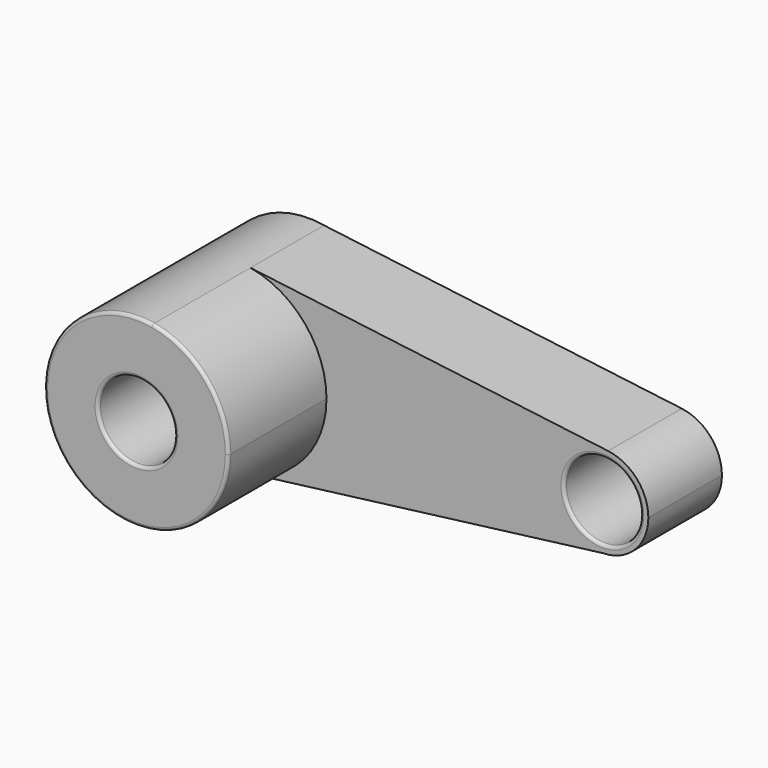
from build123d import *

# Parameters (mm, degrees)
F0_R     = 12.5
F1_DEPTH = 30
F2_DEPTH = 70
F3_R     = 1
F4_R     = 1
F5_R     = 0.5


with BuildPart() as f1:
    # F0 (on Front) → F1 (new body)
    with BuildSketch(Plane.XZ):
        with BuildLine():
            ThreePointArc((3.771303, -29.762011), (22.5071, -19.835081), (30, 0))
            ThreePointArc((30, 0), (22.98125, 19.283727), (5.209191, 29.544277))
            ThreePointArc((5.209191, 29.544277), (-29.991186, 0.72714), (3.771303, -29.762011))
        make_face()
        Circle(F0_R, mode=Mode.SUBTRACT)
        with BuildLine():
            ThreePointArc((5.209191, 29.544277), (22.98125, 19.283727), (30, 0))
            ThreePointArc((30, 0), (22.5071, -19.835081), (3.771303, -29.762011))
            Line((3.771303, -29.762011), (120.291015, -14.997177))
            ThreePointArc((120.291015, -14.997177), (105.020911, 0.791759), (121.870406, 14.882929))
            Line((121.870406, 14.882929), (5.209191, 29.544277))
        make_face()
        with BuildLine():
            ThreePointArc((135, 0), (131.248468, 9.923304), (121.870406, 14.882929))
            ThreePointArc((121.870406, 14.882929), (105.020911, 0.791759), (120.291015, -14.997177))
            ThreePointArc((120.291015, -14.997177), (130.708997, -10.503209), (135, 0))
        make_face()
        with Locations((120, 0)):
            Circle(F0_R, mode=Mode.SUBTRACT)
    extrude(amount=F1_DEPTH)

    # F0 (on Front) → F2 (join)
    with BuildSketch(Plane.XZ):
        with BuildLine():
            ThreePointArc((3.771303, -29.762011), (22.5071, -19.835081), (30, 0))
            ThreePointArc((30, 0), (22.98125, 19.283727), (5.209191, 29.544277))
            ThreePointArc((5.209191, 29.544277), (-29.991186, 0.72714), (3.771303, -29.762011))
        make_face()
        Circle(F0_R, mode=Mode.SUBTRACT)
    extrude(amount=F2_DEPTH)

    # F3
    f3_edges = [f1.edges().sort_by_distance(p)[0] for p in [
        (-3.771303, -70, 29.762011),
        (-12.5, -70, 0),
        (107.5, -30, 0),
    ]]
    fillet(f3_edges, radius=F3_R)

    # F4
    f4_edges = [f1.edges().sort_by_distance(p)[0] for p in [
        (-12.5, 0, 0),
    ]]
    fillet(f4_edges, radius=F4_R)

    # F5
    f5_edges = [f1.edges().sort_by_distance(p)[0] for p in [
        (107.5, 0, 0),
    ]]
    fillet(f5_edges, radius=F5_R)


solid = f1.part
